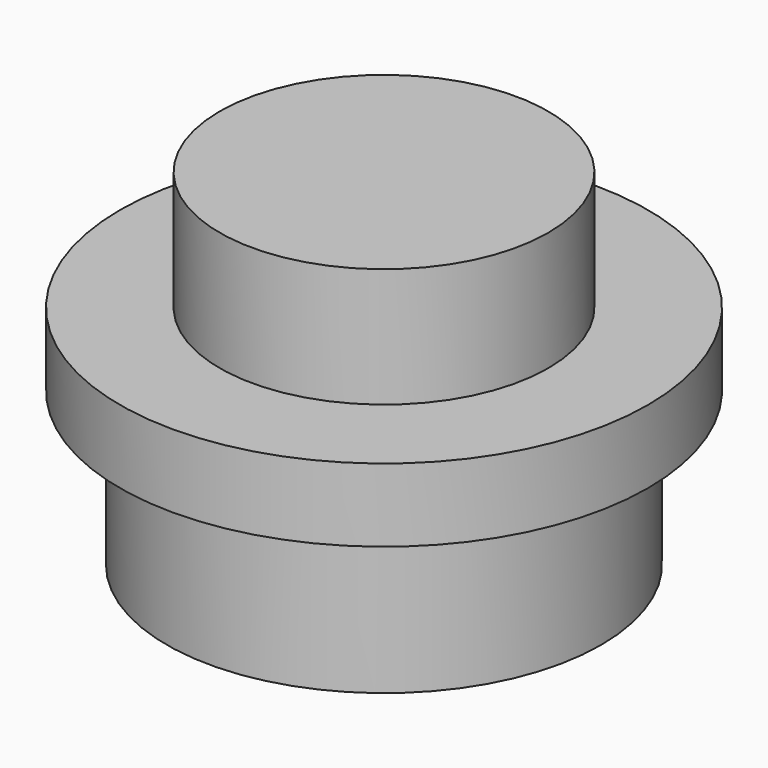
from build123d import *

# Parameters (mm, degrees)
F0_R     = 3.2385
F1_DEPTH = 2.286
F2_R     = 3.937
F3_DEPTH = 1.0922
F4_R     = 2.4511
F5_DEPTH = 1.778
F6_T     = -0.762


with BuildPart() as f1:
    # F0 (on Top) → F1 (new body)
    with BuildSketch(Plane.XY):
        Circle(F0_R)
    extrude(amount=F1_DEPTH)

    # F2 (on face) → F3 (join)
    with BuildSketch(Plane.XY.offset(2.286)):
        Circle(F2_R)
    extrude(amount=F3_DEPTH)

    # F4 (on face) → F5 (join)
    with BuildSketch(Plane.XY.offset(3.3782)):
        Circle(F4_R)
    extrude(amount=F5_DEPTH)

    # F6
    f6_openings = [f1.faces().sort_by_distance(p)[0] for p in [
        (0, 0, 0),
    ]]
    offset(amount=F6_T, openings=f6_openings, kind=Kind.INTERSECTION)


solid = f1.part
